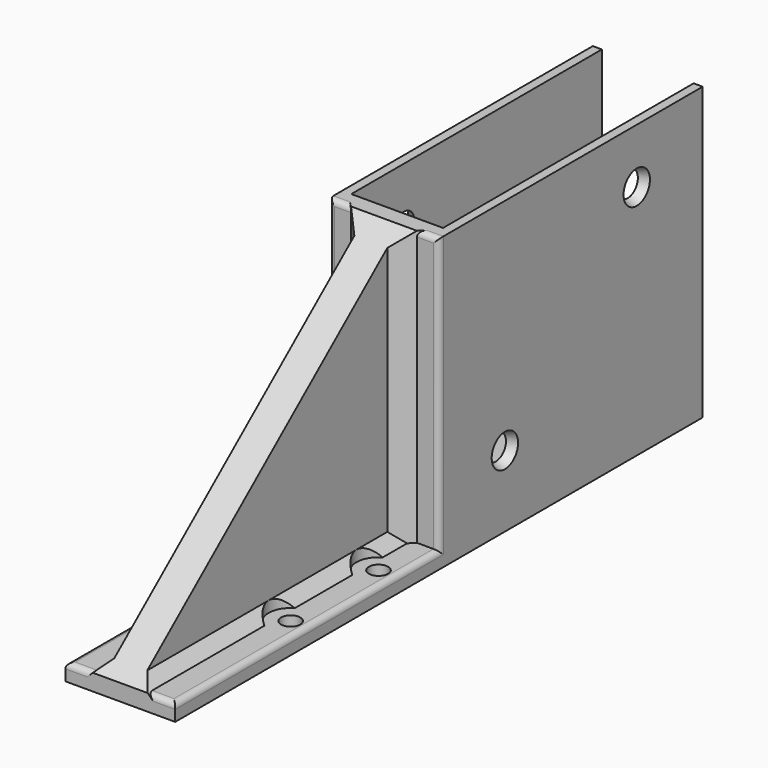
from build123d import *

# Parameters (mm, degrees)
CYLINDER003_R          = 4
CYLINDER003_DEPTH      = 5
CYLINDER002_R          = 4
CYLINDER002_DEPTH      = 5
CYLINDER001_R          = 4
CYLINDER001_DEPTH      = 5
CYLINDER_R             = 4
CYLINDER_DEPTH         = 5
CONE003_ROLL_ANGLE     = 90
CONE002_ROLL_ANGLE     = 90
CONE001_ROLL_ANGLE     = -90
CONE_ROLL_ANGLE        = -90
BOX001_W               = 60
BOX001_H               = 20
BOX001_DEPTH           = 50
SKETCH001_W            = 57
SKETCH001_H            = 16.7
POCKET001_DEPTH        = 50
PAD_DEPTH              = 6
BOX_W                  = 120
BOX_H                  = 20
BOX_DEPTH              = 3
SKETCH_R               = 1.75
POCKET_DEPTH           = 3.001
CHAMFER_SIZE           = 3
CHAMFER001_SIZE        = 2
FILLET_R               = 1
FILLET_PLACEMENT_ANGLE = 90


with BuildPart() as cylinder003:
    # Cylinder003 → Cylinder003 (new body)
    with BuildSketch(Plane(origin=(50, 7, 3), x_dir=(1, 0, 0), z_dir=(0, 0, 1))):
        Circle(CYLINDER003_R)
    extrude(amount=CYLINDER003_DEPTH)


with BuildPart() as cylinder002:
    # Cylinder002 → Cylinder002 (new body)
    with BuildSketch(Plane(origin=(30, 7, 3), x_dir=(1, 0, 0), z_dir=(0, 0, 1))):
        Circle(CYLINDER002_R)
    extrude(amount=CYLINDER002_DEPTH)


with BuildPart() as cylinder001:
    # Cylinder001 → Cylinder001 (new body)
    with BuildSketch(Plane(origin=(50, -7, 3), x_dir=(1, 0, 0), z_dir=(0, 0, 1))):
        Circle(CYLINDER001_R)
    extrude(amount=CYLINDER001_DEPTH)


with BuildPart() as cylinder:
    # Cylinder → Cylinder (new body)
    with BuildSketch(Plane(origin=(30, -7, 3), x_dir=(1, 0, 0), z_dir=(0, 0, 1))):
        Circle(CYLINDER_R)
    extrude(amount=CYLINDER_DEPTH)


with BuildPart() as cone003:
    # Cone003 → Cone003 (revolve)
    with BuildSketch(Plane.XZ):
        Polygon((0, 0), (3, 0), (1.75, 3), (0, 3), align=None)
    revolve(axis=Axis((0, 0, 0), (0, 0, 1)))


with BuildPart() as cone003_1:
    # Cone003 roll: moved
    add(cone003.part.rotate(Axis((0, 0, 0), (1, 0, 0)), CONE003_ROLL_ANGLE))


with BuildPart() as cone003_2:
    # Cone003 placement: moved
    add(cone003_1.part.moved(Location((75, 10, 43))))


with BuildPart() as cone002:
    # Cone002 → Cone002 (revolve)
    with BuildSketch(Plane.XZ):
        Polygon((0, 0), (3, 0), (1.75, 3), (0, 3), align=None)
    revolve(axis=Axis((0, 0, 0), (0, 0, 1)))


with BuildPart() as cone002_1:
    # Cone002 roll: moved
    add(cone002.part.rotate(Axis((0, 0, 0), (1, 0, 0)), CONE002_ROLL_ANGLE))


with BuildPart() as cone002_2:
    # Cone002 placement: moved
    add(cone002_1.part.moved(Location((105, 10, 13))))


with BuildPart() as cone001:
    # Cone001 → Cone001 (revolve)
    with BuildSketch(Plane.XZ):
        Polygon((0, 0), (3, 0), (1.75, 3), (0, 3), align=None)
    revolve(axis=Axis((0, 0, 0), (0, 0, 1)))


with BuildPart() as cone001_1:
    # Cone001 roll: moved
    add(cone001.part.rotate(Axis((0, 0, 0), (1, 0, 0)), CONE001_ROLL_ANGLE))


with BuildPart() as cone001_2:
    # Cone001 placement: moved
    add(cone001_1.part.moved(Location((105, -10, 43))))


with BuildPart() as cone:
    # Cone → Cone (revolve)
    with BuildSketch(Plane.XZ):
        Polygon((0, 0), (3, 0), (1.75, 3), (0, 3), align=None)
    revolve(axis=Axis((0, 0, 0), (0, 0, 1)))


with BuildPart() as cone_1:
    # Cone roll: moved
    add(cone.part.rotate(Axis((0, 0, 0), (1, 0, 0)), CONE_ROLL_ANGLE))


with BuildPart() as cone_2:
    # Cone placement: moved
    add(cone_1.part.moved(Location((75, -10, 13))))


with BuildPart() as obj1:
    # Box001 → Box001 (new body)
    with BuildSketch(Plane(origin=(60, -10, 3), x_dir=(1, 0, 0), z_dir=(0, 0, 1))):
        with Locations((30, 10)):
            Rectangle(BOX001_W, BOX001_H)
    extrude(amount=BOX001_DEPTH)

    # Sketch001 → Pocket001 (cut)
    with BuildSketch(Plane(origin=(60, -10, 53), x_dir=(1, 0, 0), z_dir=(0, 0, 1))):
        with Locations((31.5, 10)):
            Rectangle(SKETCH001_W, SKETCH001_H)
    extrude(amount=-POCKET001_DEPTH, mode=Mode.SUBTRACT)

    # Cut: cut Cone
    add(cone_2.part, mode=Mode.SUBTRACT)

    # Cut001: cut Cone001
    add(cone001_2.part, mode=Mode.SUBTRACT)

    # Cut002: cut Cone002
    add(cone002_2.part, mode=Mode.SUBTRACT)

    # Cut003: cut Cone003
    add(cone003_2.part, mode=Mode.SUBTRACT)


with BuildPart() as triangle:
    # Sketch002 → Pad (new body)
    with BuildSketch(Plane.XZ.offset(-3)):
        Polygon((0, 3), (60, 53), (60, 3), align=None)
    extrude(amount=PAD_DEPTH)


with BuildPart() as triangle_y:
    # Box → Box (new body)
    with BuildSketch(Plane(origin=(0, -10, 0), x_dir=(1, 0, 0), z_dir=(0, 0, 1))):
        with Locations((60, 10)):
            Rectangle(BOX_W, BOX_H)
    extrude(amount=BOX_DEPTH)

    # Sketch → Pocket (cut, through all)
    with BuildSketch(Plane(origin=(0, -10, 3), x_dir=(1, 0, 0), z_dir=(0, 0, 1))):
        with Locations((30, 17)):
            Circle(SKETCH_R)
        with Locations((30, 3)):
            Circle(SKETCH_R)
        with Locations((50, 17)):
            Circle(SKETCH_R)
        with Locations((50, 3)):
            Circle(SKETCH_R)
    extrude(amount=-POCKET_DEPTH, mode=Mode.SUBTRACT)

    # Fusion: union obj1, triangle
    add(obj1.part)
    add(triangle.part)

    # Chamfer
    chamfer_edges = [triangle_y.edges().sort_by_distance(p)[0] for p in [
        (60, -3, 28),
        (60, 3, 28),
    ]]
    chamfer(chamfer_edges, length=CHAMFER_SIZE)

    # Chamfer001
    chamfer001_edges = [triangle_y.edges().sort_by_distance(p)[0] for p in [
        (28.5, -3, 3),
        (28.5, 3, 3),
    ]]
    chamfer(chamfer001_edges, length=CHAMFER001_SIZE)

    # Cut004: cut Cylinder
    add(cylinder.part, mode=Mode.SUBTRACT)

    # Cut005: cut Cylinder001
    add(cylinder001.part, mode=Mode.SUBTRACT)

    # Cut006: cut Cylinder002
    add(cylinder002.part, mode=Mode.SUBTRACT)

    # Cut007: cut Cylinder003
    add(cylinder003.part, mode=Mode.SUBTRACT)

    # Fillet
    fillet_edges = [triangle_y.edges().sort_by_distance(p)[0] for p in [
        (0, -7.5, 3),
        (13.677124, -10, 3),
        (40, -10, 3),
        (56.322876, -10, 3),
        (60, -8, 53),
        (60, -10, 28),
        (0, 7.5, 3),
        (60, 8, 53),
        (60, 10, 28),
        (13.677124, 10, 3),
        (40, 10, 3),
        (56.322876, 10, 3),
    ]]
    fillet(fillet_edges, radius=FILLET_R)


with BuildPart() as triangle_y_1:
    # Fillet placement: moved
    add(triangle_y.part.rotate(Axis((0, 0, 0), (0, 0, 1)), FILLET_PLACEMENT_ANGLE))


solid = triangle_y_1.part
